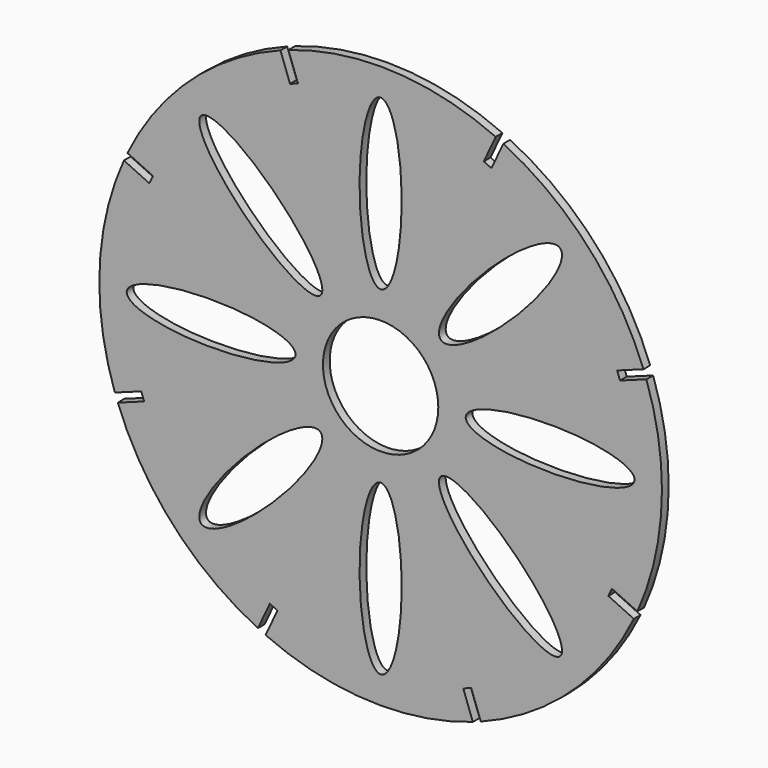
from build123d import *

# Parameters (mm, degrees)
F0_R     = 100
F0_R_2   = 20.5
F1_DEPTH = 3
F3_DEPTH = 3


with BuildPart() as f1:
    # F0 (on Front) → F1 (new body)
    with BuildSketch(Plane.XZ):
        Circle(F0_R)
        with BuildLine():
            add(Edge.make_bspline(
                [(-21.38998, -21.38998), (-30.575567, -12.204394), (-57.802579, -48.616992), (-85.02959, -85.02959), (-48.616992, -57.802579), (-12.204394, -30.575567), (-21.38998, -21.38998)],
                knots=[0, 0, 0, 2.094395, 2.094395, 4.18879, 4.18879, 6.283185, 6.283185, 6.283185], degree=2, weights=[1, 0.5, 1, 0.5, 1, 0.5, 1]))
        make_face(mode=Mode.SUBTRACT)
        with BuildLine():
            add(Edge.make_bspline(
                [(0, -30.25), (-12.990381, -30.25), (-6.495191, -75.25), (0, -120.25), (6.495191, -75.25), (12.990381, -30.25), (0, -30.25)],
                knots=[0, 0, 0, 2.094395, 2.094395, 4.18879, 4.18879, 6.283185, 6.283185, 6.283185], degree=2, weights=[1, 0.5, 1, 0.5, 1, 0.5, 1]))
        make_face(mode=Mode.SUBTRACT)
        with BuildLine():
            add(Edge.make_bspline(
                [(21.38998, -21.38998), (12.204394, -30.575567), (48.616992, -57.802579), (85.02959, -85.02959), (57.802579, -48.616992), (30.575567, -12.204394), (21.38998, -21.38998)],
                knots=[0, 0, 0, 2.094395, 2.094395, 4.18879, 4.18879, 6.283185, 6.283185, 6.283185], degree=2, weights=[1, 0.5, 1, 0.5, 1, 0.5, 1]))
        make_face(mode=Mode.SUBTRACT)
        with BuildLine():
            add(Edge.make_bspline(
                [(-30.25, 0), (-30.25, 12.990381), (-75.25, 6.495191), (-120.25, 0), (-75.25, -6.495191), (-30.25, -12.990381), (-30.25, 0)],
                knots=[0, 0, 0, 2.094395, 2.094395, 4.18879, 4.18879, 6.283185, 6.283185, 6.283185], degree=2, weights=[1, 0.5, 1, 0.5, 1, 0.5, 1]))
        make_face(mode=Mode.SUBTRACT)
        with BuildLine():
            add(Edge.make_bspline(
                [(-21.38998, 21.38998), (-12.204394, 30.575567), (-48.616992, 57.802579), (-85.02959, 85.02959), (-57.802579, 48.616992), (-30.575567, 12.204394), (-21.38998, 21.38998)],
                knots=[0, 0, 0, 2.094395, 2.094395, 4.18879, 4.18879, 6.283185, 6.283185, 6.283185], degree=2, weights=[1, 0.5, 1, 0.5, 1, 0.5, 1]))
        make_face(mode=Mode.SUBTRACT)
        Circle(F0_R_2, mode=Mode.SUBTRACT)
        with BuildLine():
            add(Edge.make_bspline(
                [(21.38998, 21.38998), (30.575567, 12.204394), (57.802579, 48.616992), (85.02959, 85.02959), (48.616992, 57.802579), (12.204394, 30.575567), (21.38998, 21.38998)],
                knots=[0, 0, 0, 2.094395, 2.094395, 4.18879, 4.18879, 6.283185, 6.283185, 6.283185], degree=2, weights=[1, 0.5, 1, 0.5, 1, 0.5, 1]))
        make_face(mode=Mode.SUBTRACT)
        with BuildLine():
            add(Edge.make_bspline(
                [(30.25, 0), (30.25, -12.990381), (75.25, -6.495191), (120.25, 0), (75.25, 6.495191), (30.25, 12.990381), (30.25, 0)],
                knots=[0, 0, 0, 2.094395, 2.094395, 4.18879, 4.18879, 6.283185, 6.283185, 6.283185], degree=2, weights=[1, 0.5, 1, 0.5, 1, 0.5, 1]))
        make_face(mode=Mode.SUBTRACT)
        with BuildLine():
            add(Edge.make_bspline(
                [(0, 30.25), (12.990381, 30.25), (6.495191, 75.25), (0, 120.25), (-6.495191, 75.25), (-12.990381, 30.25), (0, 30.25)],
                knots=[0, 0, 0, 2.094395, 2.094395, 4.18879, 4.18879, 6.283185, 6.283185, 6.283185], degree=2, weights=[1, 0.5, 1, 0.5, 1, 0.5, 1]))
        make_face(mode=Mode.SUBTRACT)
    extrude(amount=F1_DEPTH)

    # F2 (on face) → F3 (cut)
    with BuildSketch(Plane(origin=(0, 0, 0), x_dir=(-1, 0, 0), z_dir=(0, 1, 0))):
        Polygon((-82.201628, -36.676182), (-100.327784, -45.128547), (-99.059929, -47.84747), (-80.933773, -39.395105), align=None)
        Polygon((-29.372274, -85.085366), (-32.191352, -84.059306), (-39.031755, -102.853158), (-36.212677, -103.879219), align=None)
        Polygon((39.395105, -80.933773), (36.676182, -82.201628), (45.128547, -100.327784), (47.84747, -99.059929), align=None)
        Polygon((84.059306, -32.191352), (102.853158, -39.031755), (103.879219, -36.212677), (85.085366, -29.372274), align=None)
        Polygon((82.201628, 36.676182), (100.327784, 45.128547), (99.059929, 47.84747), (80.933773, 39.395105), align=None)
        Polygon((32.191352, 84.059306), (39.031755, 102.853158), (36.212677, 103.879219), (29.372274, 85.085366), align=None)
        Polygon((-36.676182, 82.201628), (-45.128547, 100.327784), (-47.84747, 99.059929), (-39.395105, 80.933773), align=None)
        Polygon((-84.059306, 32.191352), (-102.853158, 39.031755), (-103.879219, 36.212677), (-85.085366, 29.372274), align=None)
    extrude(amount=-F3_DEPTH, mode=Mode.SUBTRACT)


solid = f1.part
